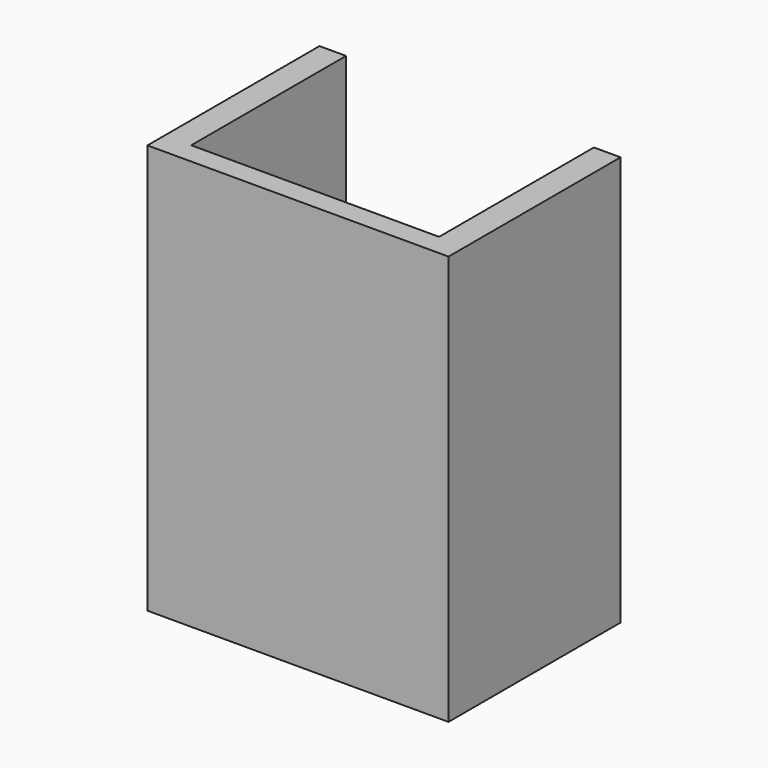
from build123d import *

# Parameters (mm, degrees)
PAD_DEPTH = 19.05


with BuildPart() as part:
    # Sketch → Pad (new body)
    with BuildSketch(Plane.XY):
        Polygon((0, 0), (14, 0), (14, 10), (12.761908, 10), (12.761908, 1), (1.236161, 1), (1.236161, 10), (0, 10), align=None)
    extrude(amount=PAD_DEPTH)


solid = part.part
